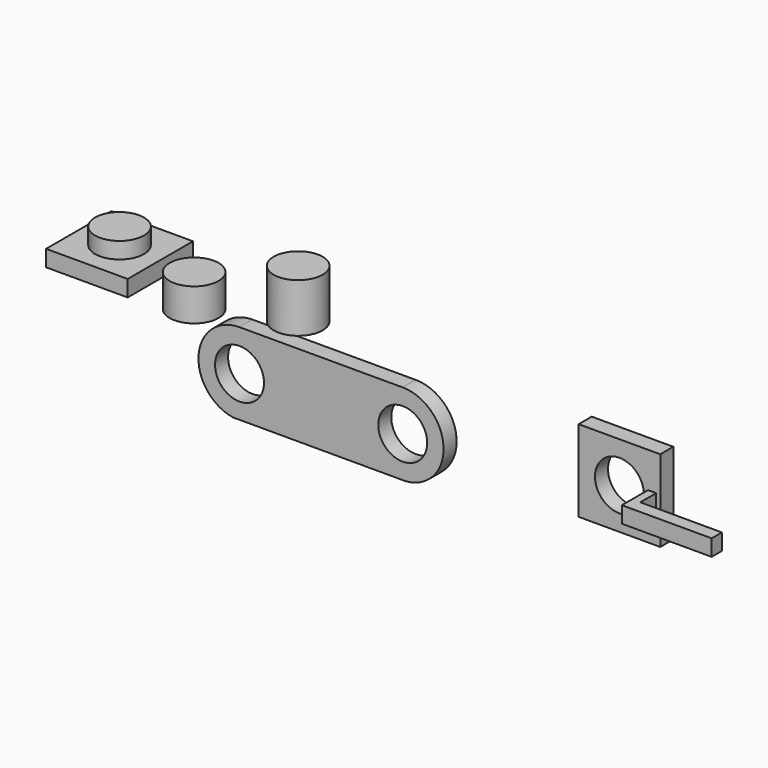
from build123d import *

# Parameters (mm, degrees)
F0_W      = 127
F0_H      = 127
F1_DEPTH  = 25.4
F2_R      = 38.1
F3_DEPTH  = 25.4
F4_R      = 38.1
F5_DEPTH  = 25.4
F6_W      = 38.1
F6_H      = 50.8
F8_W      = 38.1
F8_H      = 76.2
F10_W     = 127
F10_H     = 127
F10_R     = 38.1
F11_DEPTH = 25.4
F13_DEPTH = 50.8
F14_W     = 19.954788
F14_H     = 25.4
F15_DEPTH = 127


with BuildPart() as f1:
    # F0 (on Top) → F1 (new body)
    with BuildSketch(Plane.XY):
        with Locations((-144.270627, -9.552994)):
            Rectangle(F0_W, F0_H)
    extrude(amount=F1_DEPTH)


with BuildPart() as f3:
    # F2 (on face) → F3 (new body)
    with BuildSketch(Plane.XY.offset(25.4)):
        with Locations((-144.270627, -9.552994)):
            Circle(F2_R)
    extrude(amount=F3_DEPTH)


with BuildPart() as f5:
    # F4 (on Front) → F5 (new body)
    with BuildSketch(Plane.XZ):
        with BuildLine():
            Line((309.117671, -15.78643), (55.117671, -15.78643))
            ThreePointArc((55.117671, -15.78643), (-8.58059, -74.646086), (45.074058, -142.78643))
            Line((45.074058, -142.78643), (314.232207, -142.78643))
            ThreePointArc((314.232207, -142.78643), (372.669144, -76.830075), (309.117671, -15.78643))
        make_face()
        with Locations((55.117671, -79.683572)):
            Circle(F4_R, mode=Mode.SUBTRACT)
        with Locations((309.117671, -79.389416)):
            Circle(F4_R, mode=Mode.SUBTRACT)
    extrude(amount=F5_DEPTH)


with BuildPart() as f7:
    # F6 (on Front) → F7 (revolve)
    with BuildSketch(Plane.XZ):
        with Locations((-16.794519, -5.474863)):
            Rectangle(F6_W, F6_H)
    revolve(axis=Axis((-35.844519, 0, -9.16196), (0, 0, -1)))


with BuildPart() as f9:
    # F8 (on Front) → F9 (revolve)
    with BuildSketch(Plane.XZ):
        with Locations((145.135407, 42.991044)):
            Rectangle(F8_W, F8_H)
    revolve(axis=Axis((126.085407, 0, 94.616761), (0, 0, 1)))


with BuildPart() as f11:
    # F10 (on Front) → F11 (new body)
    with BuildSketch(Plane.XZ):
        with Locations((646.414073, -40.584184)):
            Rectangle(F10_W, F10_H)
        with Locations((646.414073, -40.584184)):
            Circle(F10_R, mode=Mode.SUBTRACT)
    extrude(amount=F11_DEPTH)

    # F12 (on face) → F13 (join)
    with BuildSketch(Plane.XZ.offset(25.4)):
        Polygon((703.564073, -57.734713), (703.564073, -40.584184), (692.02312, -40.584184), (690.864073, -40.584184), (690.864073, -57.734713), align=None)
        Polygon((692.02312, -40.584184), (703.564073, -40.584184), (703.564073, -32.334713), (690.864073, -32.334713), (690.864073, -40.584184), align=None)
    extrude(amount=F13_DEPTH)

    # F14 (on face) → F15 (join)
    with BuildSketch(Plane.YZ.offset(703.564073)):
        with Locations((-66.222606, -45.034713)):
            Rectangle(F14_W, F14_H)
    extrude(amount=F15_DEPTH)


solid = Compound([f1.part, f3.part, f5.part, f7.part, f9.part, f11.part])
